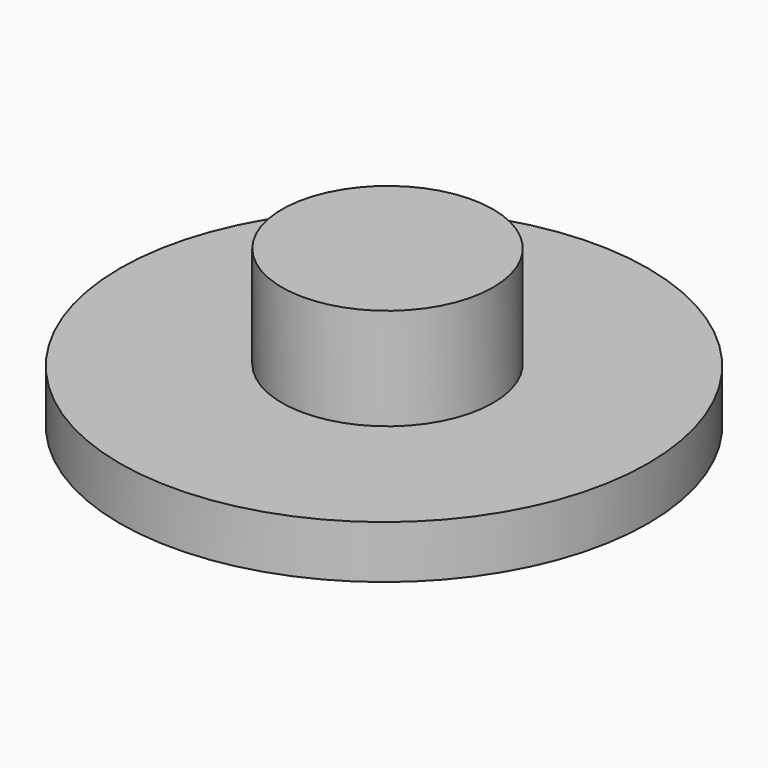
from build123d import *

# Parameters (mm, degrees)
F0_R     = 10
F0_R_2   = 4
F1_DEPTH = 2
F2_R     = 4
F3_DEPTH = 3.85


with BuildPart() as f1:
    # F0 (on Top) → F1 (new body)
    with BuildSketch(Plane.XY):
        Circle(F0_R)
        Circle(F0_R_2, mode=Mode.SUBTRACT)
        Circle(F0_R_2)
    extrude(amount=-F1_DEPTH)

    # F2 (on face) → F3 (join)
    with BuildSketch(Plane.XY):
        with Locations((0, 0.16738)):
            Circle(F2_R)
    extrude(amount=F3_DEPTH)


solid = f1.part
